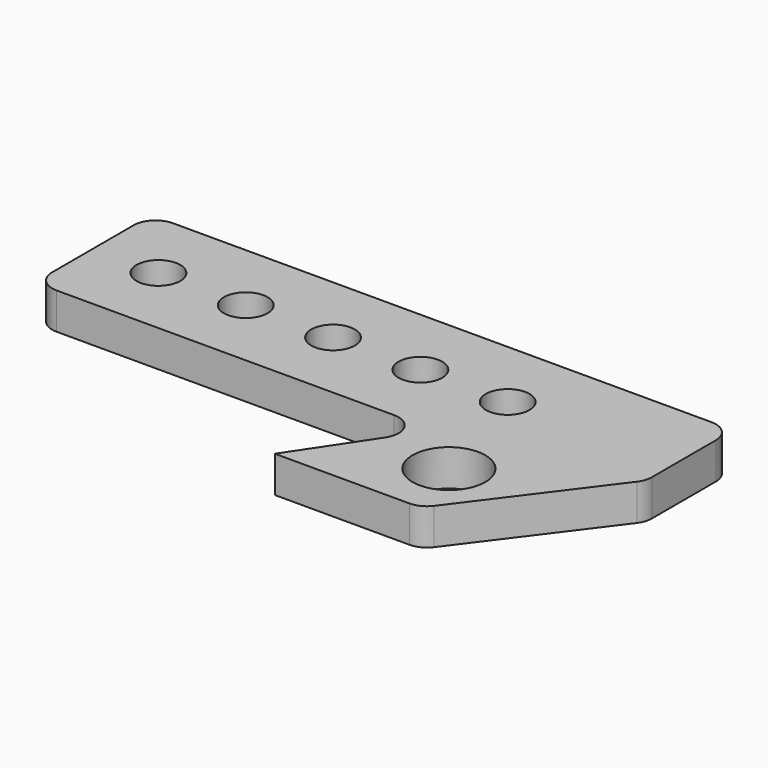
from build123d import *

# Parameters (mm, degrees)
F0_R     = 5
F0_R_2   = 3
F1_DEPTH = 5


with BuildPart() as f1:
    # F0 (on Top) → F1 (new body)
    with BuildSketch(Plane.XY):
        with BuildLine():
            Line((-58.71788, 38.444074), (-58.71788, 24.444074))
            ThreePointArc((-58.71788, 24.444074), (-57.839201, 22.322754), (-55.71788, 21.444074))
            Line((-55.71788, 21.444074), (-9.323432, 21.444074))
            ThreePointArc((-9.323432, 21.444074), (-6.678408, 19.859648), (-6.827281, 16.779974))
            Line((-6.827281, 16.779974), (-13.71788, 6.444074))
            Line((-13.71788, 6.444074), (4.78212, 6.444074))
            ThreePointArc((4.78212, 6.444074), (6.12376, 6.760793), (7.18212, 7.644074))
            Line((7.18212, 7.644074), (20.68212, 25.644074))
            ThreePointArc((20.68212, 25.644074), (21.128169, 26.495391), (21.28212, 27.444074))
            Line((21.28212, 27.444074), (21.28212, 38.444074))
            ThreePointArc((21.28212, 38.444074), (20.40344, 40.565395), (18.28212, 41.444074))
            Line((18.28212, 41.444074), (-55.71788, 41.444074))
            ThreePointArc((-55.71788, 41.444074), (-57.839201, 40.565395), (-58.71788, 38.444074))
        make_face()
        with Locations((3.034636, 15.408069)):
            Circle(F0_R, mode=Mode.SUBTRACT)
        with Locations((-49.71788, 31.444074)):
            Circle(F0_R_2, mode=Mode.SUBTRACT)
        with Locations((-37.71788, 31.444074)):
            Circle(F0_R_2, mode=Mode.SUBTRACT)
        with Locations((-25.71788, 31.444074)):
            Circle(F0_R_2, mode=Mode.SUBTRACT)
        with Locations((-13.71788, 31.444074)):
            Circle(F0_R_2, mode=Mode.SUBTRACT)
        with Locations((-1.71788, 31.444074)):
            Circle(F0_R_2, mode=Mode.SUBTRACT)
    extrude(amount=F1_DEPTH)


solid = f1.part
